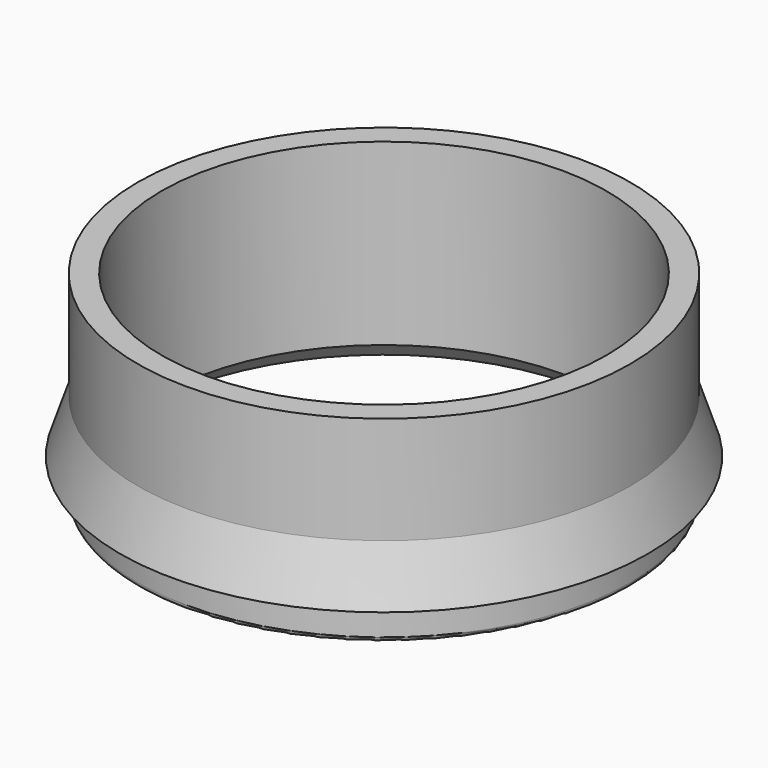
from build123d import *

# Parameters (mm, degrees)
F2_R    = 0.5
F3_SIZE = 2


with BuildPart() as f1:
    # F0 (on Front) → F1 (revolve)
    with BuildSketch(Plane.XZ):
        Polygon((27.5, 0), (24.85, 0), (24.85, -22), (27.5, -22), (27.5, -18), (29.5, -18), (27.5, -12), align=None)
    revolve(axis=Axis((0, 0, -6.186577), (0, 0, -1)))

    # F2
    f2_edges = [f1.edges().sort_by_distance(p)[0] for p in [
        (-27.5, 0, -22),
    ]]
    fillet(f2_edges, radius=F2_R)

    # F3
    f3_edges = [f1.edges().sort_by_distance(p)[0] for p in [
        (-24.85, 0, -22),
    ]]
    chamfer(f3_edges, length=F3_SIZE)


solid = f1.part
